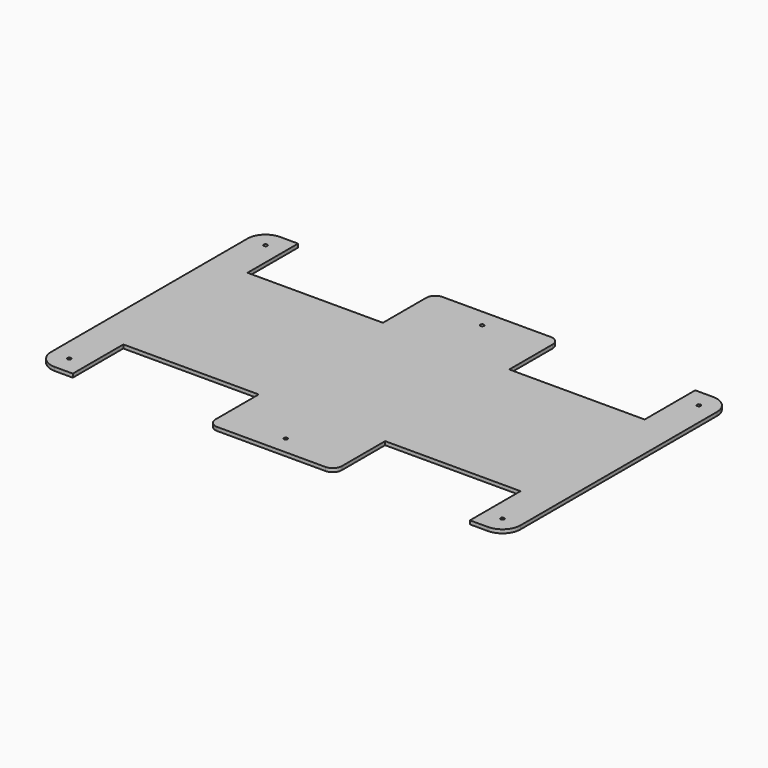
from build123d import *

# Parameters (mm, degrees)
F0_R     = 1
F1_DEPTH = 2
F2_D     = 2


with BuildPart() as f1:
    # F0 (on Top) → F1 (new body)
    with BuildSketch(Plane.XY):
        with BuildLine():
            ThreePointArc((130, 67.9833874329), (127.0710678119, 75.0544552448), (120, 77.9833874329))
            Line((120, 77.9833874329), (110, 77.9833874329))
            Line((110, 77.9833874329), (110, 67.9833874329))
            Line((110, 67.9833874329), (110, 42.9833874329))
            Line((110, 42.9833874329), (35, 42.9833874329))
            Line((35, 42.9833874329), (35, 72.9833874329))
            ThreePointArc((35, 72.9833874329), (33.5355339059, 76.5189213388), (30, 77.9833874329))
            Line((30, 77.9833874329), (-30, 77.9833874329))
            ThreePointArc((-30, 77.9833874329), (-33.5355339059, 76.5189213388), (-35, 72.9833874329))
            Line((-35, 72.9833874329), (-35, 42.9833874329))
            Line((-35, 42.9833874329), (-110, 42.9833874329))
            Line((-110, 42.9833874329), (-110, 67.9833874329))
            Line((-110, 67.9833874329), (-110, 77.9833874329))
            Line((-110, 77.9833874329), (-120, 77.9833874329))
            ThreePointArc((-120, 77.9833874329), (-127.0710678119, 75.0544552448), (-130, 67.9833874329))
            Line((-130, 67.9833874329), (-130, 0))
            Line((-130, 0), (-130, -67.9833874329))
            ThreePointArc((-130, -67.9833874329), (-127.0710678119, -75.0544552448), (-120, -77.9833874329))
            Line((-120, -77.9833874329), (-110, -77.9833874329))
            Line((-110, -77.9833874329), (-110, -42.9833874329))
            Line((-110, -42.9833874329), (-35, -42.9833874329))
            Line((-35, -42.9833874329), (-35, -72.9833874329))
            ThreePointArc((-35, -72.9833874329), (-33.5355339059, -76.5189213388), (-30, -77.9833874329))
            Line((-30, -77.9833874329), (30, -77.9833874329))
            ThreePointArc((30, -77.9833874329), (33.5355339059, -76.5189213388), (35, -72.9833874329))
            Line((35, -72.9833874329), (35, -42.9833874329))
            Line((35, -42.9833874329), (110, -42.9833874329))
            Line((110, -42.9833874329), (110, -77.9833874329))
            Line((110, -77.9833874329), (120, -77.9833874329))
            ThreePointArc((120, -77.9833874329), (127.0710678119, -75.0544552448), (130, -67.9833874329))
            Line((130, -67.9833874329), (130, 0))
            Line((130, 0), (130, 67.9833874329))
        make_face()
        with Locations((-120, -67.9833874329)):
            Circle(F0_R, mode=Mode.SUBTRACT)
        with Locations((0, -67.9833874329)):
            Circle(F0_R, mode=Mode.SUBTRACT)
        with Locations((120, -67.9833874329)):
            Circle(F0_R, mode=Mode.SUBTRACT)
        with Locations((0, 67.9833874329)):
            Circle(F0_R, mode=Mode.SUBTRACT)
        with BuildLine():
            ThreePointArc((121, 67.9833874329), (120, 66.9833874329), (119, 67.9833874329))
            ThreePointArc((119, 67.9833874329), (120, 68.9833874329), (121, 67.9833874329))
        make_face(mode=Mode.SUBTRACT)
    extrude(amount=F1_DEPTH)

    # F2 (through all)
    with Locations(Plane(origin=(0, 0, 0), x_dir=(1, 0, 0), z_dir=(0, 0, -1))):
        with Locations((-120, -67.9833874329)):
            Hole(F2_D / 2)


solid = f1.part
